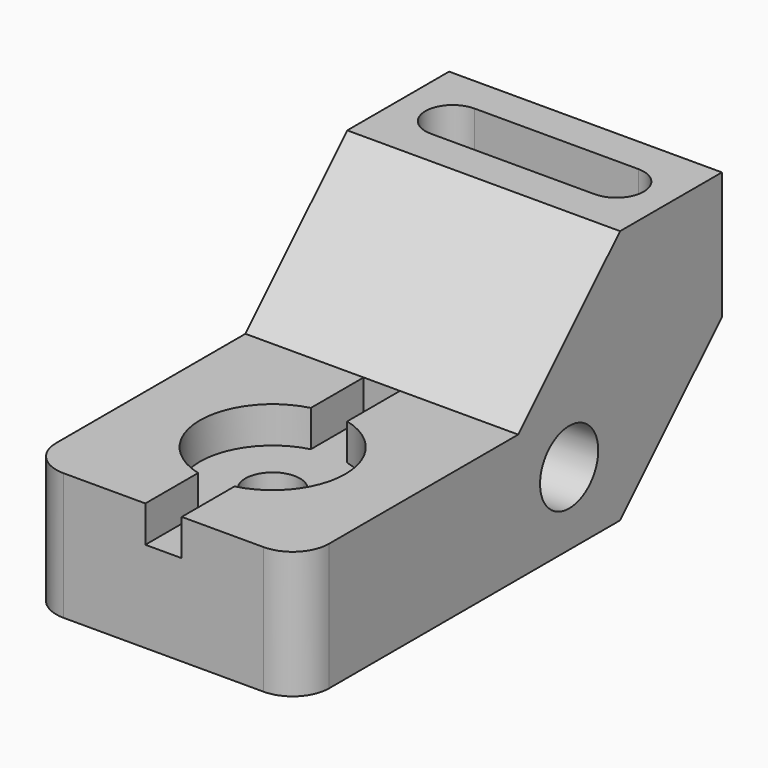
from build123d import *

# Parameters (mm, degrees)
F0_R           = 10.16
F1_DEPTH       = 76.2
F3_DEPTH       = 27.94
F4_R           = 10.16
F6_D           = 15.24
F6_CBORE_D     = 40.64
F6_CBORE_DEPTH = 10.16
F5_W           = 10.16
F5_H           = 76.2
F7_DEPTH       = 10.16


with BuildPart() as f1:
    # F0 (on Right) → F1 (new body)
    with BuildSketch(Plane.YZ):
        Polygon((0, 35.56), (0, 0), (111.76, 0), (147.32, 35.56), (147.32, 71.12), (111.76, 71.12), (76.2, 35.56), align=None)
        with Locations((93.98, 20.32)):
            Circle(F0_R, mode=Mode.SUBTRACT)
    extrude(amount=F1_DEPTH)

    # F2 (on face) → F3 (cut)
    with BuildSketch(Plane.XY.offset(71.12)):
        with BuildLine():
            ThreePointArc((15.24, 137.16), (7.62, 129.54), (15.24, 121.92))
            Line((15.24, 121.92), (60.96, 121.92))
            ThreePointArc((60.96, 121.92), (68.58, 129.54), (60.96, 137.16))
            Line((60.96, 137.16), (15.24, 137.16))
        make_face()
    extrude(amount=-F3_DEPTH, mode=Mode.SUBTRACT)

    # F4
    f4_edges = [f1.edges().sort_by_distance(p)[0] for p in [
        (76.2, 0, 17.78),
        (0, 0, 17.78),
    ]]
    fillet(f4_edges, radius=F4_R)

    # F6 (through all)
    with Locations(Plane.XY.offset(35.56)):
        with Locations((38.1, 38.1)):
            CounterBoreHole(F6_D / 2, F6_CBORE_D / 2, F6_CBORE_DEPTH)

    # F5 (on face) → F7 (cut)
    with BuildSketch(Plane.XY.offset(35.56)):
        with Locations((38.1, 38.1)):
            Rectangle(F5_W, F5_H)
    extrude(amount=-F7_DEPTH, mode=Mode.SUBTRACT)


solid = f1.part
